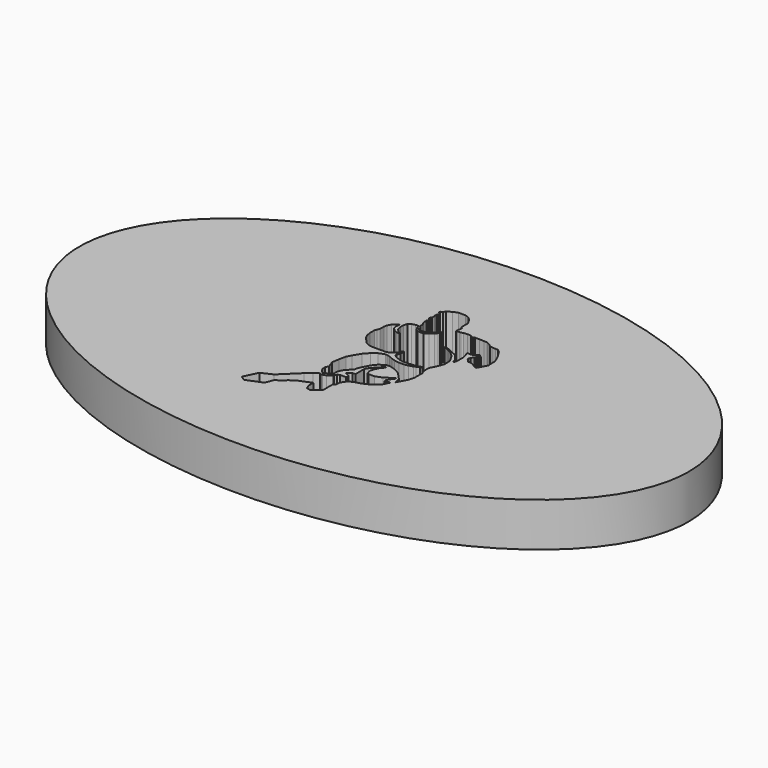
from build123d import *

# Parameters (mm, degrees)
F1_DEPTH = 6.858


with BuildPart() as f1:
    # F0 (on Top) → F1 (new body)
    with BuildSketch(Plane.XY):
        with BuildLine():
            add(Edge.make_bspline(
                [(47.625, 0), (47.625, 49.493352), (-23.8125, 24.746676), (-95.25, 0), (-23.8125, -24.746676), (47.625, -49.493352), (47.625, 0)],
                knots=[0, 0, 0, 2.094395, 2.094395, 4.18879, 4.18879, 6.283185, 6.283185, 6.283185], degree=2, weights=[1, 0.5, 1, 0.5, 1, 0.5, 1]))
        make_face()
        Polygon((-9.933867, -14.96241), (-10.671772, -14.475418), (-9.630321, -12.33613), (-7.951812, -11.554869), (-5.325731, -9.013564), (-4.482973, -8.248874), (-3.788833, -7.822836), (-3.590642, -7.922937), (-3.268411, -7.922937), (-2.825387, -7.761822), (-2.095939, -7.290869), (-2.095939, -7.145549), (-1.915298, -6.787898), (-1.607683, -6.621315), (-0.666629, -6.621315), (-0.566629, -6.423324), (-0.566629, -6.26028), (-0.710063, -6.11619), (-0.993882, -5.97284), (-1.380883, -5.777375), (-1.076013, -5.483087), (-0.710063, -5.292354), (-0.253109, -5.292354), (-0.253109, -4.932052), (-0.253109, -4.274118), (-0.253109, -3.562386), (0, -3.061254), (0.573061, -2.409939), (1.515389, -1.439896), (1.515389, -1.703194), (1.157945, -2.037083), (0.808643, -2.728668), (0.573061, -3.476987), (0.720164, -4.152438), (0.961078, -4.274118), (1.598535, -4.274118), (1.958837, -4.274118), (2.959855, -3.878862), (3.55248, -3.476987), (4.286941, -2.922677), (4.286941, -3.227547), (3.848914, -3.805312), (3.612132, -4.274118), (3.732631, -4.599466), (4.10679, -4.460888), (4.547469, -4.274118), (3.93685, -5.483087), (2.959855, -6.26028), (1.823418, -6.787898), (0.839539, -7.048786), (0.200026, -7.41403), (-0.365704, -8.248874), (-0.365704, -8.892399), (-0.710063, -9.222859), (-0.710063, -11.014295), (-1.915298, -12.023064), (-2.554826, -11.86653), (-2.825387, -11.240398), (-2.825387, -10.283806), (-4.620954, -11.014295), (-5.678616, -11.675213), (-6.293543, -12.33613), (-6.982245, -12.631805), (-7.498778, -13.971033), align=None, mode=Mode.SUBTRACT)
        Polygon((2.339139, 12.273267), (2.198545, 11.289108), (2.405493, 11.30923), (2.742145, 11.30923), (2.982612, 11.333277), (3.247124, 11.453509), (3.848289, 11.501603), (4.401361, 11.477556), (4.713967, 11.23709), (4.978479, 11.213044), (5.146806, 11.357323), (5.82011, 11.357323), (6.565555, 11.333277), (7.046487, 11.30923), (7.647652, 11.020671), (8.008352, 10.684018), (8.345003, 10.684018), (8.894324, 10.611879), (9.282821, 10.611879), (9.739707, 10.251179), (10.316825, 9.361455), (10.77371, 8.423638), (10.966083, 7.846519), (10.942036, 7.052981), (11.038223, 6.740375), (10.244685, 5.249486), (9.980173, 5.273533), (8.951266, 5.852818), (8.460844, 5.852818), (7.933824, 6.416437), (8.014342, 6.819022), (8.124137, 6.928817), (8.198, 7.089757), (8.357129, 7.226425), (8.326334, 7.32266), (8.445162, 7.360685), (8.464174, 7.565069), (8.606768, 7.565069), (8.621028, 7.701519), (8.831089, 7.701519), (8.894324, 7.789635), (8.67825, 7.944697), (8.381159, 8.185199), (8.017668, 7.73618), (7.590029, 7.565125), (6.895119, 7.565125), (7.151701, 6.902287), (7.290683, 6.207376), (7.279993, 5.726284), (7.279993, 5.202428), (7.140665, 4.721791), (7.044792, 4.689263), (6.841664, 5.287955), (6.510245, 5.747666), (6.039843, 6.282213), (5.387696, 6.581559), (4.821077, 6.880905), (4.339984, 7.041269), (3.666455, 7.190942), (4.650021, 6.699159), (5.387696, 6.282213), (5.708424, 5.993557), (6.018462, 5.630065), (6.253662, 5.202428), (6.596943, 4.603735), (6.596943, 4.111952), (6.596943, 3.514853), (6.166833, 2.396527), (5.735942, 1.604243), (5.735942, 0.833295), (5.976833, 0), (5.976833, -0.825919), (5.976833, -1.479549), (5.735942, -2.42182), (5.188633, -3.428162), (4.925387, -3.912195), (4.672849, -2.944129), (4.188815, -2.42182), (3.523001, -1.75499), (2.652536, -1.28158), (1.831784, -1.029041), (1.179392, -1.029041), (0.337595, -1.618299), (-0.189668, -2.249026), (-0.693606, -3.175623), (-0.988235, -3.785925), (-1.156594, -4.522497), (-1.493313, -4.775037), (-2.016382, -5.32202), (-2.314065, -5.869372), (-2.41929, -6.353405), (-2.398245, -6.795349), (-2.840188, -7.174157), (-3.574001, -7.502408), (-3.829299, -7.363562), (-4.081838, -7.026843), (-4.271242, -6.626989), (-4.295037, -6.172105), (-4.050275, -5.722058), (-4.439602, -4.606677), (-4.271242, -3.449207), (-4.050275, -2.42182), (-3.640282, -1.667961), (-2.992227, -0.570236), (-2.264819, 0.2233), (-1.550637, 0.765549), (-0.677747, 1.089604), (-0.427304, 1.089604), (0.102563, 0.940276), (0.717052, 0.676273), (1.238459, 0.517871), (1.971068, 0.40567), (2.809278, 0.40567), (3.383484, 0.517871), (4.036892, 0.722474), (4.333896, 0.841275), (4.802502, 1.039277), (5.000504, 1.29668), (4.076493, 1.052478), (3.607887, 0.993077), (3.00728, 0.940276), (2.089869, 0.940276), (1.440566, 1.089604), (0.804979, 1.373674), (0.43156, 1.659962), (0.43156, 1.871566), (0.7054, 2.357011), (0.7054, 2.805114), (0.606108, 3.14217), (0.481349, 3.029165), (0.303066, 2.495781), (0, 2.221269), (-0.427304, 1.834224), (-0.962538, 1.62262), (-3.252842, 1.62262), (-3.887654, 1.759541), (-4.403655, 2.084626), (-4.584786, 2.284598), (-4.924741, 2.659914), (-5.281752, 3.05406), (-5.555592, 3.614188), (-5.676189, 4.347172), (-5.676189, 5.212148), (-5.544244, 5.534681), (-5.382977, 5.886535), (-5.382977, 6.326353), (-5.382977, 6.722189), (-5.265693, 7.176668), (-5.004796, 7.699194), (-4.561984, 8.100286), (-4.166148, 8.276213), (-4.298093, 7.601826), (-4.166148, 7.176668), (-3.822152, 6.796892), (-3.374475, 6.531602), (-2.729409, 6.384996), (-2.729409, 6.531602), (-3.125245, 6.766171), (-3.579724, 7.176668), (-3.74099, 7.865717), (-3.74099, 8.452141), (-3.571707, 9.061356), (-3.183888, 9.302455), (-2.656106, 9.478383), (-2.086765, 9.478383), (-2.086765, 9.077472), (-1.761809, 8.554765), (-1.395294, 8.290874), (-0.984797, 8.290874), (-0.500998, 8.290874), (0.078589, 8.65119), (0.592532, 9.103106), (0.849504, 9.457549), (1.009003, 9.687938), (1.009003, 9.989215), (0.911531, 9.856299), (0.57481, 9.413244), (0.105173, 9.120828), (-0.453076, 8.810691), (-0.772075, 8.695496), (-1.241712, 8.633468), (-1.542989, 8.722079), (-1.737933, 8.89044), (-1.737933, 9.165133), (-1.826544, 9.430966), (-2.030349, 9.670216), (-2.030349, 10.042381), (-2.322765, 10.680379), (-2.322765, 11.185461), (-2.227727, 11.298904), (-2.227727, 11.606907), (-2.456939, 11.857608), (-2.456939, 12.172775), (-2.28441, 12.244403), (-2.28441, 12.416312), (-2.28441, 12.658257), (-2.349496, 12.760131), (-2.349496, 13.139763), (-2.23489, 13.340324), (-2.23489, 13.719956), (-2.342333, 13.719956), (-2.50708, 13.784422), (-2.50708, 14.042285), (-2.159877, 14.181332), (-1.979113, 14.522775), (-1.256057, 14.984728), (-0.533001, 15.245832), (0.531499, 15.245832), (1.174215, 15.024898), (1.636168, 14.562945), (1.857102, 14.181332), (2.09812, 13.779635), (2.09812, 13.377937), (2.09812, 12.514286), align=None, mode=Mode.SUBTRACT)
    extrude(amount=F1_DEPTH)


solid = f1.part
